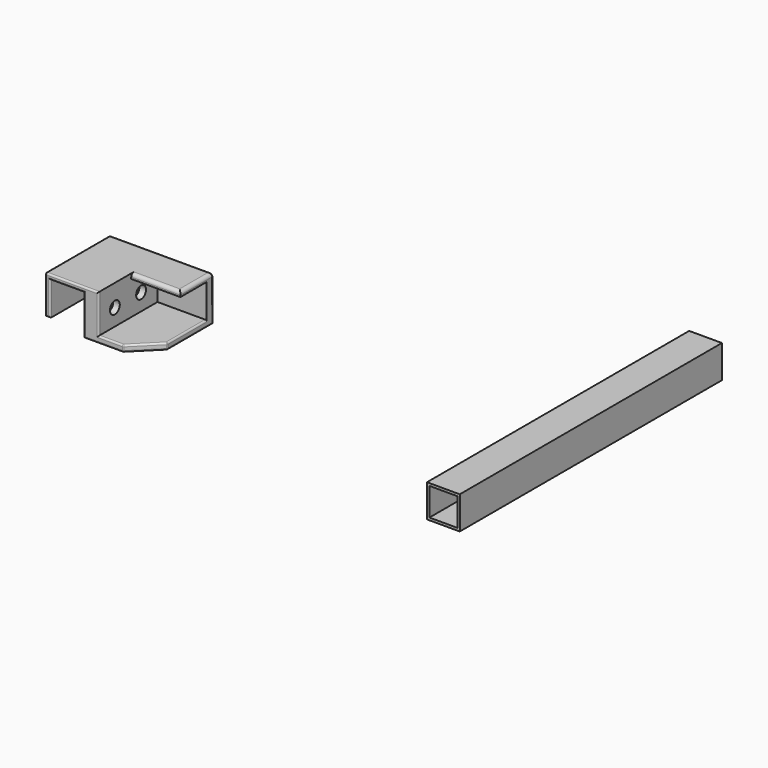
from build123d import *

# Parameters (mm, degrees)
SKETCH_W        = 20
SKETCH_H        = 20
SKETCH_W_2      = 17
SKETCH_H_2      = 17
PAD_DEPTH       = 100
PAD001_DEPTH    = 50
SKETCH002_W     = 30
SKETCH002_H     = 3
POCKET_DEPTH    = 25
SKETCH003_W     = 20.5
SKETCH003_H     = 5
PAD002_DEPTH    = 30
POCKET001_DEPTH = 5
SKETCH005_R     = 3.75
POCKET002_DEPTH = 4
SKETCH006_R     = 1.8
POCKET003_DEPTH = 5
FILLET_R        = 1
FILLET001_R     = 2
FILLET002_R     = 0.9


with BuildPart() as aluprofil:
    # Sketch → Pad (new body, symmetric)
    with BuildSketch(Plane.XZ):
        with Locations((-10, 10)):
            Rectangle(SKETCH_W, SKETCH_H)
        with Locations((-10, 10)):
            Rectangle(SKETCH_W_2, SKETCH_H_2, mode=Mode.SUBTRACT)
    extrude(amount=PAD_DEPTH, both=True)


with BuildPart() as obj1:
    # Sketch001 → Pad001 (new body)
    with BuildSketch(Plane.XZ):
        Polygon((0, 0), (0, 20.5), (-20.5, 20.5), (-20.5, -4), (-59.5, -4), (-59.5, 0), (-29.5, 0), (-29.5, 20.5), (-59.5, 20.5), (-59.5, 23.5), (3, 23.5), (3, 0), align=None)
    extrude(amount=PAD001_DEPTH)

    # Sketch002 (on Face14 of Pad001) → Pocket (cut)
    with BuildSketch(Plane.XZ.offset(50)):
        with Locations((-44.5, 22)):
            Rectangle(SKETCH002_W, SKETCH002_H)
    extrude(amount=-POCKET_DEPTH, mode=Mode.SUBTRACT)

    # Sketch003 (on Face11 of Pocket) → Pad002 (join)
    with BuildSketch(Plane(origin=(-29.5, 0, 0), x_dir=(0, 0, -1), z_dir=(-1, 0, 0))):
        with Locations((-10.25, 2.5)):
            Rectangle(SKETCH003_W, SKETCH003_H)
    extrude(amount=PAD002_DEPTH)

    # Sketch004 (on Face15 of Pad002) → Pocket001 (cut)
    with BuildSketch(Plane(origin=(0, 0, 0), x_dir=(-1, 0, 0), z_dir=(0, 0, 1))):
        Polygon((44.5, 50), (59.5, 35), (59.5, 50), align=None)
    extrude(amount=-POCKET001_DEPTH, mode=Mode.SUBTRACT)

    # Sketch005 (on Face14 of Pocket001) → Pocket002 (cut)
    with BuildSketch(Plane(origin=(-29.5, 0, 0), x_dir=(0, 0, -1), z_dir=(-1, 0, 0))):
        with Locations((-10.25, 37.5)):
            Circle(SKETCH005_R)
        with Locations((-10.25, 17.5)):
            Circle(SKETCH005_R)
    extrude(amount=-POCKET002_DEPTH, mode=Mode.SUBTRACT)

    # Sketch006 (on Face23 of Pocket002) → Pocket003 (cut)
    with BuildSketch(Plane(origin=(-25.5, 0, 0), x_dir=(0, 0, -1), z_dir=(-1, 0, 0))):
        with Locations((-10.25, 37.5)):
            Circle(SKETCH006_R)
        with Locations((-10.25, 17.5)):
            Circle(SKETCH006_R)
    extrude(amount=-POCKET003_DEPTH, mode=Mode.SUBTRACT)

    # Fillet
    fillet_edges = [obj1.edges().sort_by_distance(p)[0] for p in [
        (3, -50, 11.75),
        (-13.25, -50, 23.5),
        (-29.5, -50, 22),
        (-29.5, -50, 10.25),
        (-37, -50, 0),
        (-44.5, -50, -2),
        (-32.5, -50, -4),
        (-20.5, -50, 8.25),
        (-10.25, -50, 20.5),
        (0, -50, 10.25),
        (1.5, -50, 0),
        (-52, -42.5, 0),
        (-59.5, -35, -2),
        (-52, -42.5, -4),
        (-59.5, 0, -2),
        (-59.5, -2.5, 0),
        (-59.5, -20, 0),
        (-59.5, -17.5, -4),
    ]]
    fillet(fillet_edges, radius=FILLET_R)

    # Fillet001
    fillet001_edges = [obj1.edges().sort_by_distance(p)[0] for p in [
        (-59.5, -13, 23.5),
        (-44.5, -25, 23.5),
    ]]
    fillet(fillet001_edges, radius=FILLET001_R)

    # Fillet002
    fillet002_edges = [obj1.edges().sort_by_distance(p)[0] for p in [
        (3, -25.5, 23.5),
        (3, -0.585786, 22.914214),
        (3, 0, 10.75),
    ]]
    fillet(fillet002_edges, radius=FILLET002_R)


with BuildPart() as part_mirroring:
    # Part__Mirroring: instance of obj1
    add(obj1.part.mirror(Plane(origin=(0, 0, 0), x_dir=(0, -1, 0), z_dir=(1, 0, 0))))


with BuildPart() as part_mirroring_1:
    # Part__Mirroring placement: moved
    add(part_mirroring.part.moved(Location((-290, 0, 0))))


solid = Compound([aluprofil.part, part_mirroring_1.part])
